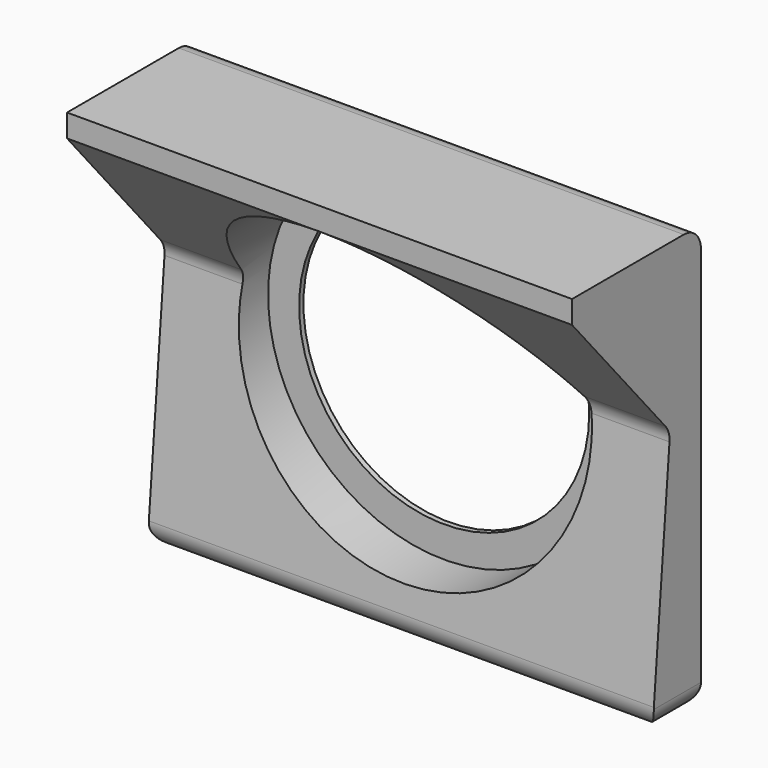
from build123d import *

# Parameters (mm, degrees)
F0_W     = 119.38
F0_H     = 100.33
F0_R     = 34.29
F1_DEPTH = 38.1
F4_DEPTH = 119.381
F5_R     = 5.08
F6_R     = 5.08
F7_R     = 5.08
F8_R     = 41.6341019148
F9_DEPTH = 36.83


with BuildPart() as f1:
    # F0 (on Front) → F1 (new body)
    with BuildSketch(Plane.XZ):
        with Locations((0, -3.175)):
            Rectangle(F0_W, F0_H)
        Circle(F0_R, mode=Mode.SUBTRACT)
    extrude(amount=-F1_DEPTH)

    # F3 (on face) → F4 (cut, through all)
    with BuildSketch(Plane.YZ.offset(59.69)):
        Polygon((28.9814, 7.6699430424), (0, 41.6043430424), (0, -53.34), (23.6982, -53.34), align=None)
    extrude(amount=-F4_DEPTH, mode=Mode.SUBTRACT)

    # F5
    f5_edges = [f1.edges().sort_by_distance(p)[0] for p in [
        (46.555596, 28.9814, 7.669943),
        (-46.555596, 28.9814, 7.669943),
    ]]
    fillet(f5_edges, radius=F5_R)

    # F6
    f6_edges = [f1.edges().sort_by_distance(p)[0] for p in [
        (0, 38.1, -53.34),
        (0, 23.6982, -53.34),
        (59.69, 30.8991, -53.34),
        (-59.69, 30.8991, -53.34),
    ]]
    fillet(f6_edges, radius=F6_R)

    # F7
    f7_edges = [f1.edges().sort_by_distance(p)[0] for p in [
        (0, 38.1, 46.99),
    ]]
    fillet(f7_edges, radius=F7_R)

    # F8 (on Front) → F9 (cut)
    with BuildSketch(Plane.XZ):
        Circle(F8_R)
    extrude(amount=-F9_DEPTH, mode=Mode.SUBTRACT)


solid = f1.part
